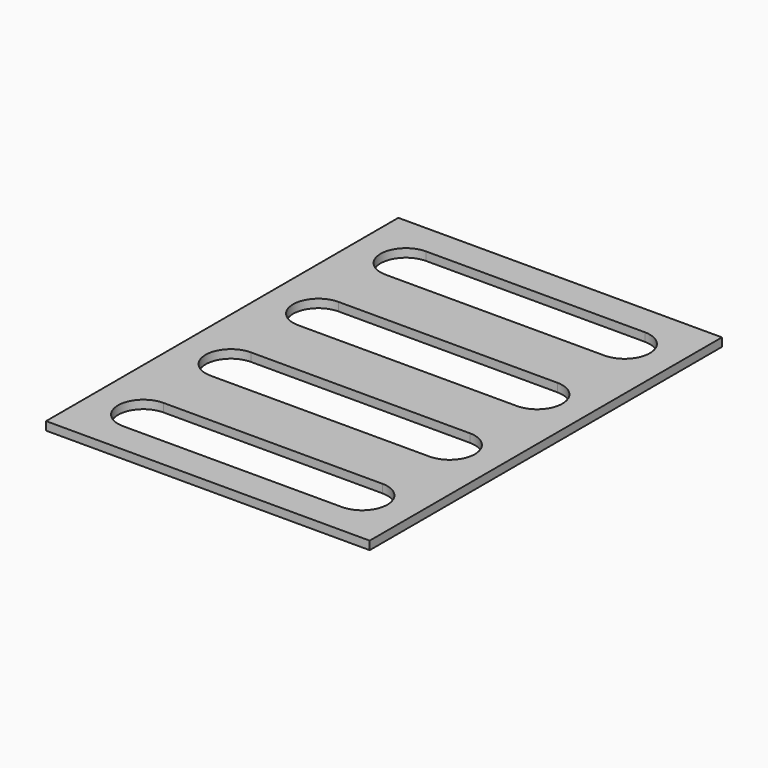
from build123d import *

# Parameters (mm, degrees)
F0_W     = 57.7
F0_H     = 78.5
F1_DEPTH = 1.5


with BuildPart() as f1:
    # F0 (on Top) → F1 (new body)
    with BuildSketch(Plane.XY):
        Rectangle(F0_W, F0_H)
        with BuildLine():
            Line((19.5, -33.75), (-19.5, -33.75))
            ThreePointArc((-19.5, -33.75), (-24, -29.25), (-19.5, -24.75))
            Line((-19.5, -24.75), (19.5, -24.75))
            ThreePointArc((19.5, -24.75), (24, -29.25), (19.5, -33.75))
        make_face(mode=Mode.SUBTRACT)
        with BuildLine():
            Line((19.5, -14.25), (-19.5, -14.25))
            ThreePointArc((-19.5, -14.25), (-24, -9.75), (-19.5, -5.25))
            Line((-19.5, -5.25), (19.5, -5.25))
            ThreePointArc((19.5, -5.25), (24, -9.75), (19.5, -14.25))
        make_face(mode=Mode.SUBTRACT)
        with BuildLine():
            Line((19.5, 5.25), (-19.5, 5.25))
            ThreePointArc((-19.5, 5.25), (-24, 9.75), (-19.5, 14.25))
            Line((-19.5, 14.25), (19.5, 14.25))
            ThreePointArc((19.5, 14.25), (24, 9.75), (19.5, 5.25))
        make_face(mode=Mode.SUBTRACT)
        with BuildLine():
            Line((19.5, 24.75), (-19.5, 24.75))
            ThreePointArc((-19.5, 24.75), (-24, 29.25), (-19.5, 33.75))
            Line((-19.5, 33.75), (19.5, 33.75))
            ThreePointArc((19.5, 33.75), (24, 29.25), (19.5, 24.75))
        make_face(mode=Mode.SUBTRACT)
    extrude(amount=F1_DEPTH)


solid = f1.part
